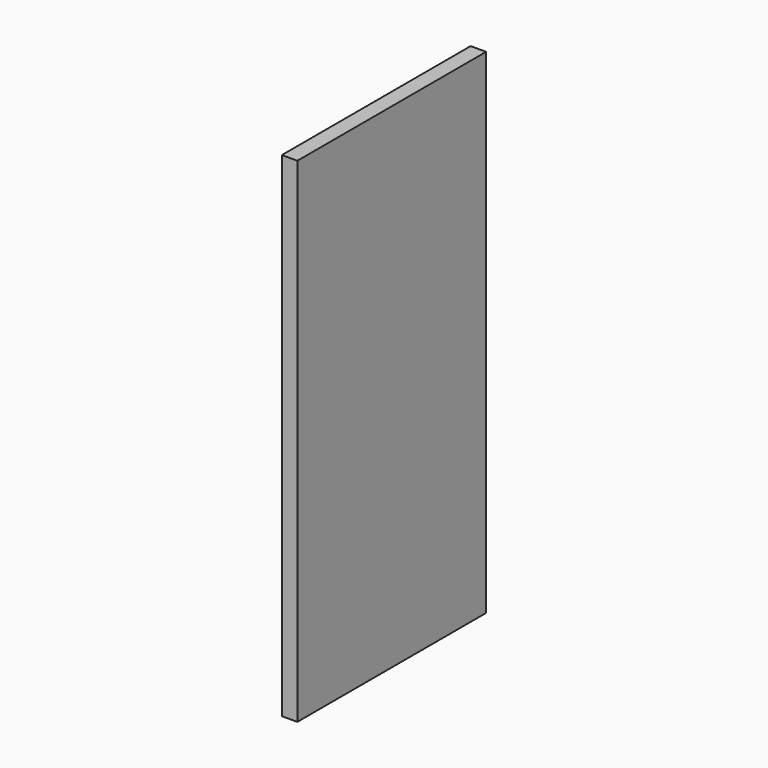
from build123d import *

# Parameters (mm, degrees)
F0_W     = 320
F0_H     = 670
F1_DEPTH = 21


with BuildPart() as f1:
    # F0 (on Right) → F1 (new body)
    with BuildSketch(Plane.YZ):
        Rectangle(F0_W, F0_H)
        Rectangle(F0_W, F0_H)
    extrude(amount=F1_DEPTH)


solid = f1.part
